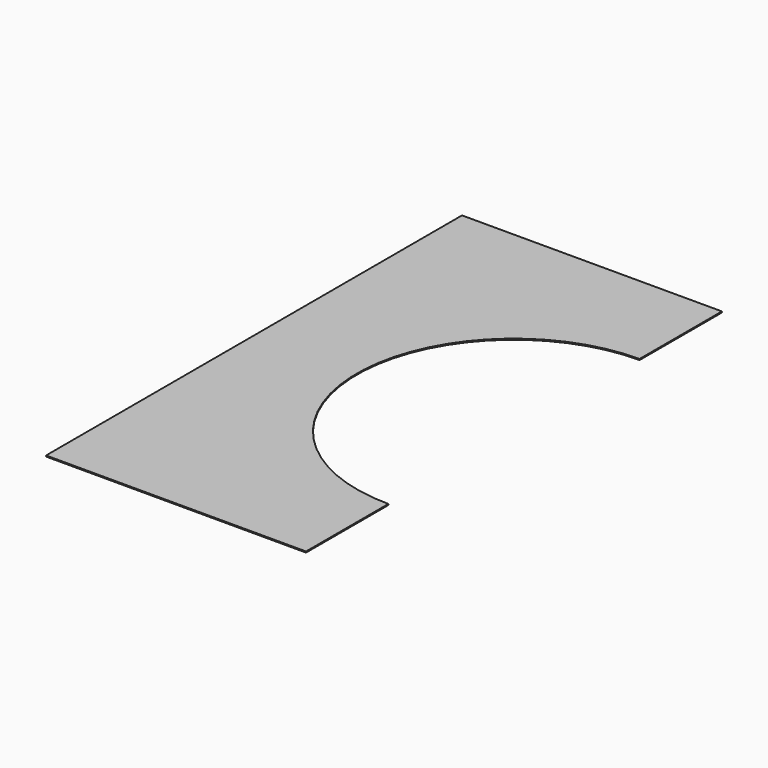
from build123d import *

# Parameters (mm, degrees)
F1_DEPTH = 1


with BuildPart() as f1:
    # F0 (on Top) → F1 (new body)
    with BuildSketch(Plane.XY):
        with BuildLine():
            ThreePointArc((0, -151), (-151, 0), (0, 151))
            Line((0, 151), (0, 250))
            Line((0, 250), (-250, 250))
            Line((-250, 250), (-250, -250))
            Line((-250, -250), (0, -250))
            Line((0, -250), (0, -151))
        make_face()
    extrude(amount=F1_DEPTH)


solid = f1.part
